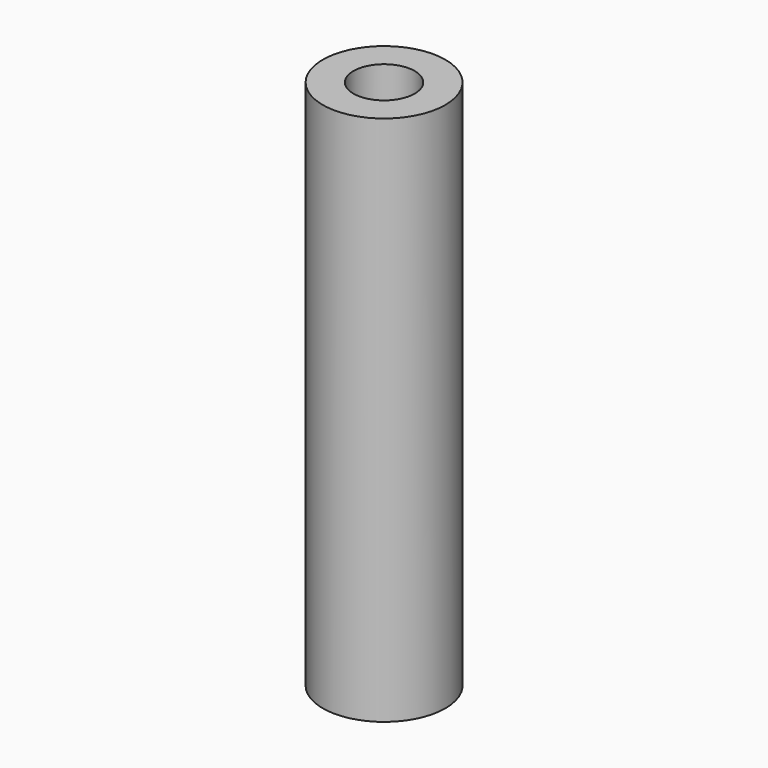
from build123d import *

# Parameters (mm, degrees)
CYLINDER001_R     = 1.5
CYLINDER001_DEPTH = 26
CYLINDER_R        = 3
CYLINDER_DEPTH    = 26


with BuildPart() as cylinder:
    # Cylinder001 → Cylinder001 (new body)
    with BuildSketch(Plane.XY):
        Circle(CYLINDER001_R)
    extrude(amount=CYLINDER001_DEPTH)


with BuildPart() as stand25:
    # Cylinder → Cylinder (new body)
    with BuildSketch(Plane.XY):
        Circle(CYLINDER_R)
    extrude(amount=CYLINDER_DEPTH)

    # Cut: cut Cylinder
    add(cylinder.part, mode=Mode.SUBTRACT)


solid = stand25.part
